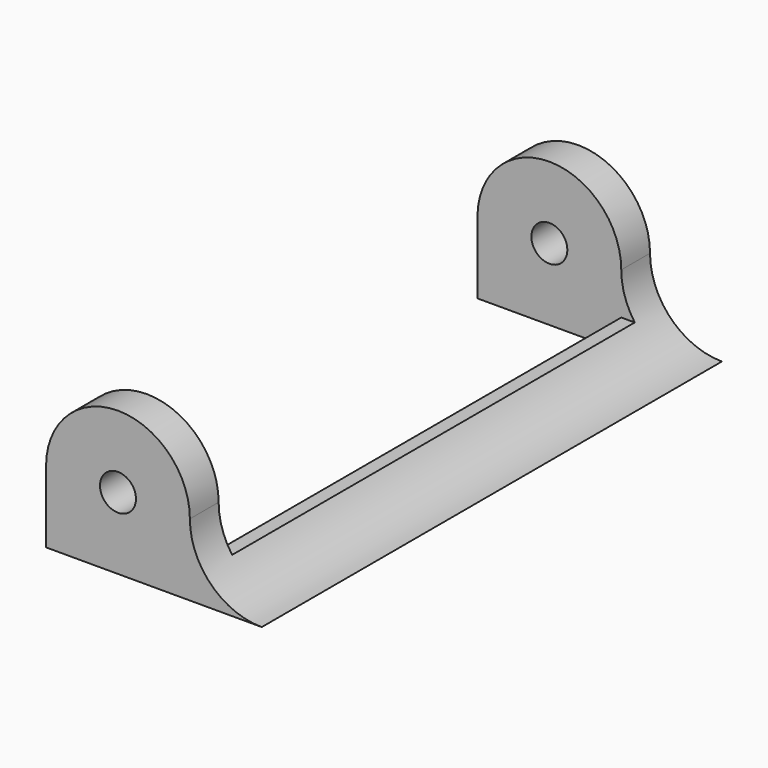
from build123d import *

# Parameters (mm, degrees)
F0_R     = 1.5875
F1_DEPTH = 25.4
F2_W     = 44.45
F2_H     = 11.1125
F3_DEPTH = 25.4
F4_W     = 12.7
F4_H     = 44.45
F5_DEPTH = 2.646833


with BuildPart() as f1:
    # F0 (on Front) → F1 (new body, symmetric)
    with BuildSketch(Plane.XZ):
        with BuildLine():
            Line((0, -6.35), (6.35, -6.35))
            ThreePointArc((6.35, -6.35), (1.859872, -4.490128), (0, 0))
            ThreePointArc((0, 0), (-6.35, 6.35), (-12.7, 0))
            Line((-12.7, 0), (-12.7, -6.35))
            Line((-12.7, -6.35), (0, -6.35))
        make_face()
        with Locations((-6.35, 0)):
            Circle(F0_R, mode=Mode.SUBTRACT)
    extrude(amount=F1_DEPTH, both=True)

    # F2 (on Right) → F3 (cut, symmetric)
    with BuildSketch(Plane.YZ):
        with Locations((0, 1.852083)):
            Rectangle(F2_W, F2_H)
    extrude(amount=F3_DEPTH, both=True, mode=Mode.SUBTRACT)

    # F4 (on face) → F5 (cut, through all)
    with BuildSketch(Plane.XY.offset(-3.704167)):
        with Locations((-6.35, 0)):
            Rectangle(F4_W, F4_H)
    extrude(amount=-F5_DEPTH, mode=Mode.SUBTRACT)


solid = f1.part
